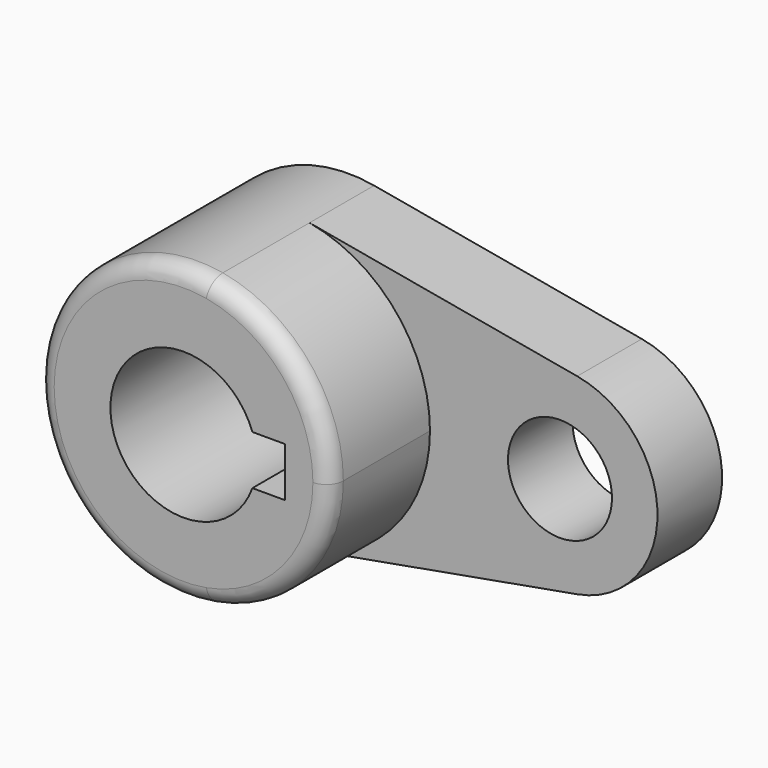
from build123d import *

# Parameters (mm, degrees)
F0_R     = 10.16
F1_DEPTH = 15.7734
F2_DEPTH = 40.2336
F3_R     = 3.302


with BuildPart() as f1:
    # F0 (on Front) → F1 (new body)
    with BuildSketch(Plane.XZ):
        with BuildLine():
            ThreePointArc((-47.867193, 52.785754), (-30.993815, 42.995474), (-24.33484, 24.659213))
            ThreePointArc((-24.33484, 24.659213), (-30.993815, 6.322951), (-47.867193, -3.467329))
            Line((-47.867193, -3.467329), (4.426925, 5.908185))
            ThreePointArc((4.426925, 5.908185), (20.11516, 24.659213), (4.426925, 43.41024))
            Line((4.426925, 43.41024), (-47.867193, 52.785754))
        make_face()
        with Locations((1.06516, 24.659213)):
            Circle(F0_R, mode=Mode.SUBTRACT)
    extrude(amount=F1_DEPTH)

    # F0 (on Front) → F2 (join)
    with BuildSketch(Plane.XZ):
        with BuildLine():
            ThreePointArc((-47.867193, -3.467329), (-30.993815, 6.322951), (-24.33484, 24.659213))
            ThreePointArc((-24.33484, 24.659213), (-30.993815, 42.995474), (-47.867193, 52.785754))
            ThreePointArc((-47.867193, 52.785754), (-81.48484, 24.659213), (-47.867193, -3.467329))
        make_face()
        with BuildLine():
            ThreePointArc((-39.462075, 19.833213), (-67.19734, 24.659213), (-39.462075, 29.485213))
            Line((-39.462075, 29.485213), (-33.135355, 29.485213))
            Line((-33.135355, 29.485213), (-33.135355, 24.659213))
            Line((-33.135355, 24.659213), (-33.135355, 19.833213))
            Line((-33.135355, 19.833213), (-39.462075, 19.833213))
        make_face(mode=Mode.SUBTRACT)
    extrude(amount=F2_DEPTH)

    # F3
    f3_edges = [f1.edges().sort_by_distance(p)[0] for p in [
        (-57.952487, -40.2336, 52.785754),
    ]]
    fillet(f3_edges, radius=F3_R)


solid = f1.part
